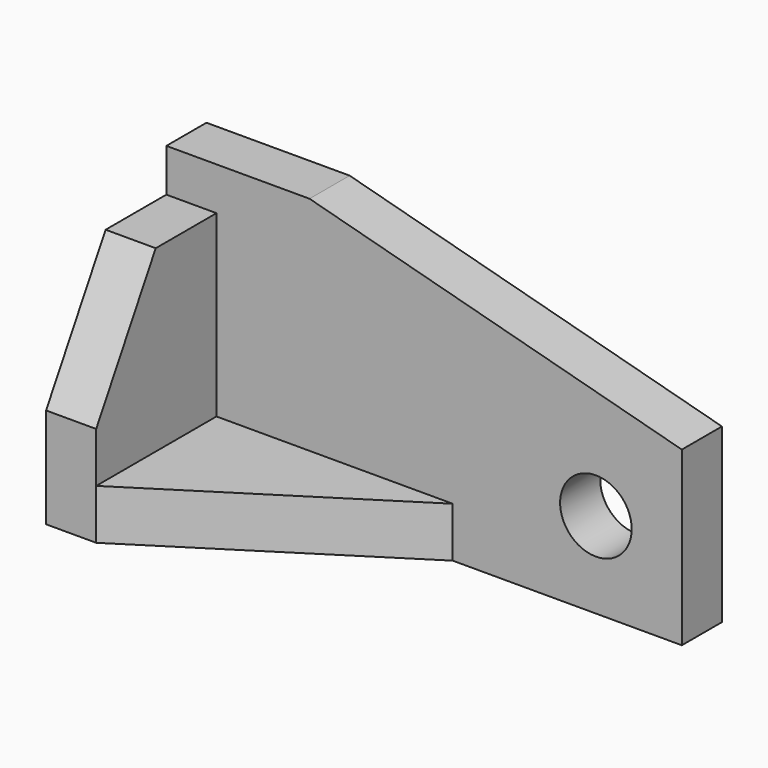
from build123d import *

# Parameters (mm, degrees)
F1_DEPTH = 11.1125
F2_R     = 7.9375
F3_DEPTH = 25.4
F5_DEPTH = 11.1125
F6_W     = 33.3375
F6_H     = 11.1125
F7_DEPTH = 11.1125


with BuildPart() as f1:
    # F0 (on Front) → F1 (new body)
    with BuildSketch(Plane.XZ):
        Polygon((-63.399741, 36.479078), (-95.149741, 36.479078), (-95.149741, -23.845922), (19.150259, -23.845922), (19.150259, 14.359872), align=None)
    extrude(amount=F1_DEPTH)

    # F2 (on face) → F3 (cut)
    with BuildSketch(Plane.XZ.offset(11.1125)):
        with Locations((0.100259, -4.795922)):
            Circle(F2_R)
    extrude(amount=-F3_DEPTH, mode=Mode.SUBTRACT)

    # F4 (on face) → F5 (join)
    with BuildSketch(Plane(origin=(0, 0, -23.845922), x_dir=(1, 0, 0), z_dir=(0, 0, -1))):
        Polygon((-31.649741, 11.1125), (-84.037241, 44.45), (-84.037241, 11.1125), align=None)
    extrude(amount=-F5_DEPTH)

    # F6 (on face) → F7 (join)
    with BuildSketch(Plane(origin=(-84.037241, 0, 0), x_dir=(0, -1, 0), z_dir=(-1, 0, 0))):
        with Locations((27.78125, -18.289672)):
            Rectangle(F6_W, F6_H)
        Polygon((11.1125, -12.733422), (44.45, -12.733422), (44.45, -1.620922), (27.952216, 26.954078), (11.1125, 26.954078), align=None)
    extrude(amount=F7_DEPTH)


solid = f1.part
